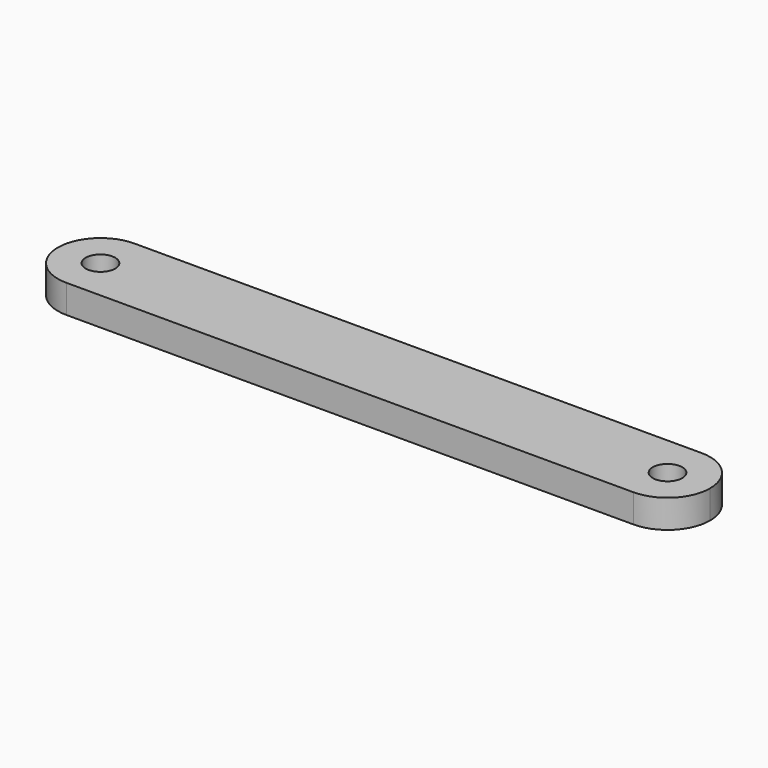
from build123d import *

# Parameters (mm, degrees)
F0_R     = 3.302
F1_DEPTH = 6.35


with BuildPart() as f1:
    # F0 (on Top) → F1 (new body)
    with BuildSketch(Plane.XY):
        with BuildLine():
            ThreePointArc((-78.144505, -9.525), (-71.409313, -6.735192), (-68.619505, 0))
            ThreePointArc((-68.619505, 0), (-71.409313, 6.735192), (-78.144505, 9.525))
            ThreePointArc((-78.144505, 9.525), (-87.669505, 0), (-78.144505, -9.525))
        make_face()
        with Locations((-78.144505, 0)):
            Circle(F0_R, mode=Mode.SUBTRACT)
        with BuildLine():
            ThreePointArc((58.380495, 0), (55.590687, 6.735192), (48.855495, 9.525))
            ThreePointArc((48.855495, 9.525), (39.330495, 0), (48.855495, -9.525))
            ThreePointArc((48.855495, -9.525), (55.590687, -6.735192), (58.380495, 0))
        make_face()
        with Locations((48.855495, 0)):
            Circle(F0_R, mode=Mode.SUBTRACT)
        with BuildLine():
            ThreePointArc((-78.144505, 9.525), (-71.409313, 6.735192), (-68.619505, 0))
            ThreePointArc((-68.619505, 0), (-71.409313, -6.735192), (-78.144505, -9.525))
            Line((-78.144505, -9.525), (48.855495, -9.525))
            ThreePointArc((48.855495, -9.525), (39.330495, 0), (48.855495, 9.525))
            Line((48.855495, 9.525), (-78.144505, 9.525))
        make_face()
    extrude(amount=F1_DEPTH)


solid = f1.part
